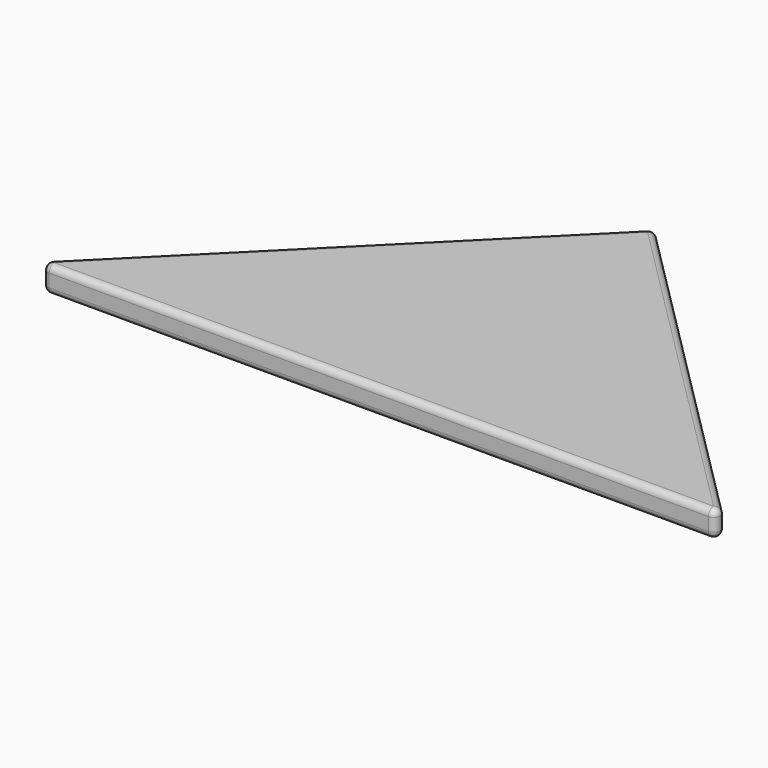
from build123d import *

# Parameters (mm, degrees)
PAD_DEPTH = 4
FILLET_R  = 1


with BuildPart() as part:
    # Sketch → Pad (new body)
    with BuildSketch(Plane.XY):
        Polygon((0, 0), (53, 53), (106, 0), align=None)
    extrude(amount=PAD_DEPTH)

    # Fillet
    fillet_edges = [part.edges().sort_by_distance(p)[0] for p in [
        (0, 0, 2),
        (53, 53, 2),
        (26.5, 26.5, 0),
        (26.5, 26.5, 4),
        (106, 0, 2),
        (79.5, 26.5, 0),
        (79.5, 26.5, 4),
        (53, 0, 0),
        (53, 0, 4),
    ]]
    fillet(fillet_edges, radius=FILLET_R)


solid = part.part
